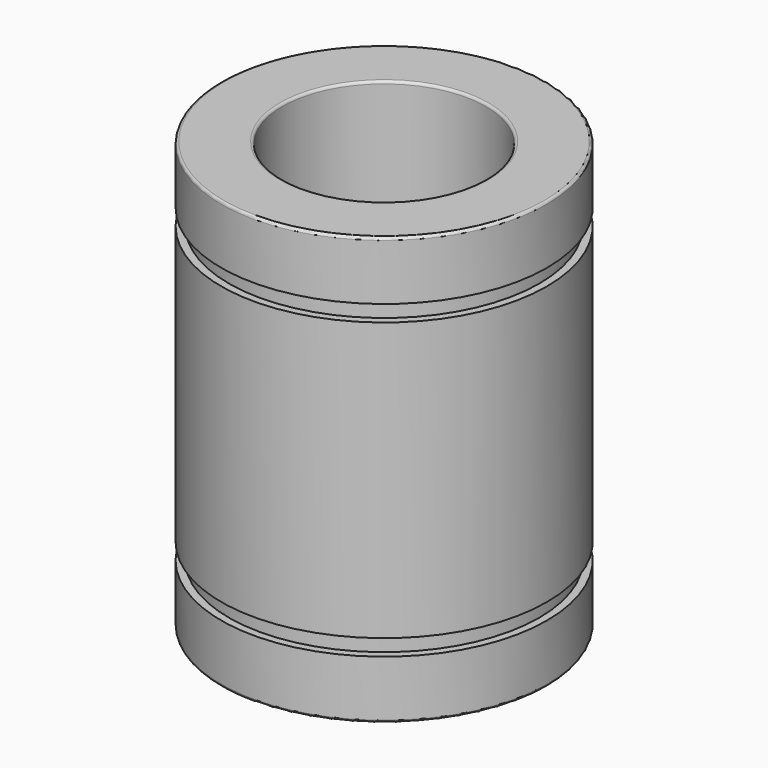
from build123d import *

# Parameters (mm, degrees)
F0_R     = 16
F0_R_2   = 10
F1_DEPTH = 42
F2_R     = 0.25
F4_START = -5.75
F3_R     = 16
F3_R_2   = 15.25
F4_DEPTH = 1.6
F5_START = -34.65
F5_DEPTH = 1.6


with BuildPart() as f1:
    # F0 (on Top) → F1 (new body)
    with BuildSketch(Plane.XY):
        Circle(F0_R)
        Circle(F0_R_2, mode=Mode.SUBTRACT)
    extrude(amount=F1_DEPTH)

    # F2
    f2_edges = [f1.edges().sort_by_distance(p)[0] for p in [
        (-16, 0, 42),
        (-10, 0, 42),
        (-16, 0, 0),
        (-10, 0, 0),
    ]]
    fillet(f2_edges, radius=F2_R)

    # F3 (on face) → F4 (cut)
    with BuildSketch(Plane.XY.offset(42).offset(F4_START)):
        Circle(F3_R)
        Circle(F3_R_2, mode=Mode.SUBTRACT)
    extrude(amount=-F4_DEPTH, mode=Mode.SUBTRACT)

    # F3 (on face) → F5 (cut)
    with BuildSketch(Plane.XY.offset(42).offset(F5_START)):
        Circle(F3_R)
        Circle(F3_R_2, mode=Mode.SUBTRACT)
    extrude(amount=-F5_DEPTH, mode=Mode.SUBTRACT)


solid = f1.part
